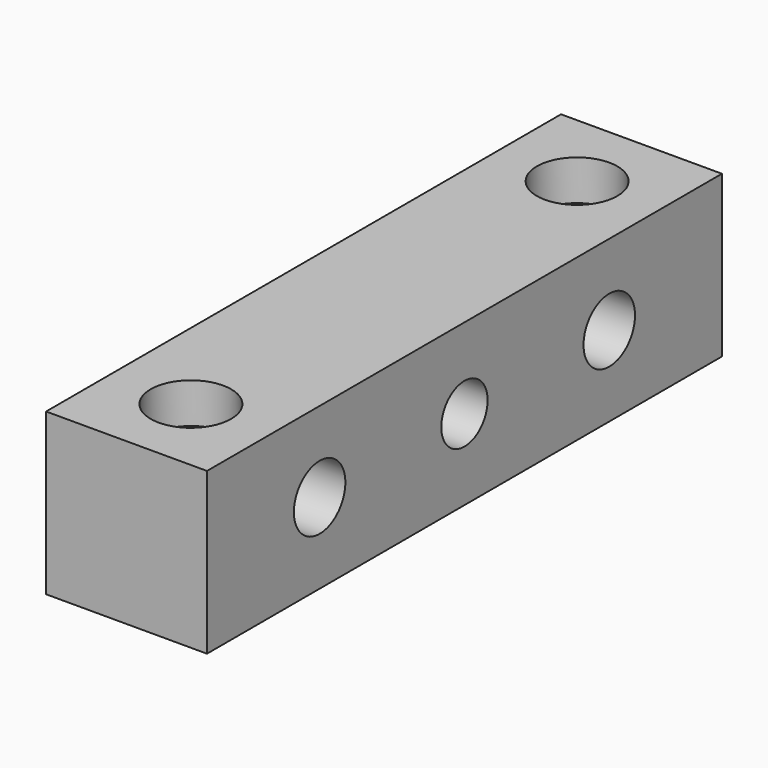
from build123d import *

# Parameters (mm, degrees)
F0_W     = 20
F0_H     = 80
F0_R     = 2.6
F1_DEPTH = 20
F2_R     = 5
F3_DEPTH = 5
F4_R     = 4
F4_R_2   = 3.6
F5_DEPTH = 25


with BuildPart() as f1:
    # F0 (on Top) → F1 (new body)
    with BuildSketch(Plane.XY):
        Rectangle(F0_W, F0_H)
        with Locations((0, -30)):
            Circle(F0_R, mode=Mode.SUBTRACT)
        with Locations((0, 30)):
            Circle(F0_R, mode=Mode.SUBTRACT)
    extrude(amount=F1_DEPTH)

    # F2 (on face) → F3 (cut)
    with BuildSketch(Plane.XY.offset(20)):
        with Locations((0, 30)):
            Circle(F2_R)
        with Locations((0, -30)):
            Circle(F2_R)
    extrude(amount=-F3_DEPTH, mode=Mode.SUBTRACT)

    # F4 (on face) → F5 (cut)
    with BuildSketch(Plane.YZ.offset(10)):
        with Locations((-22.5, 10)):
            Circle(F4_R)
        with Locations((22.5, 10)):
            Circle(F4_R)
        with Locations((0, 10)):
            Circle(F4_R_2)
    extrude(amount=-F5_DEPTH, mode=Mode.SUBTRACT)


solid = f1.part
